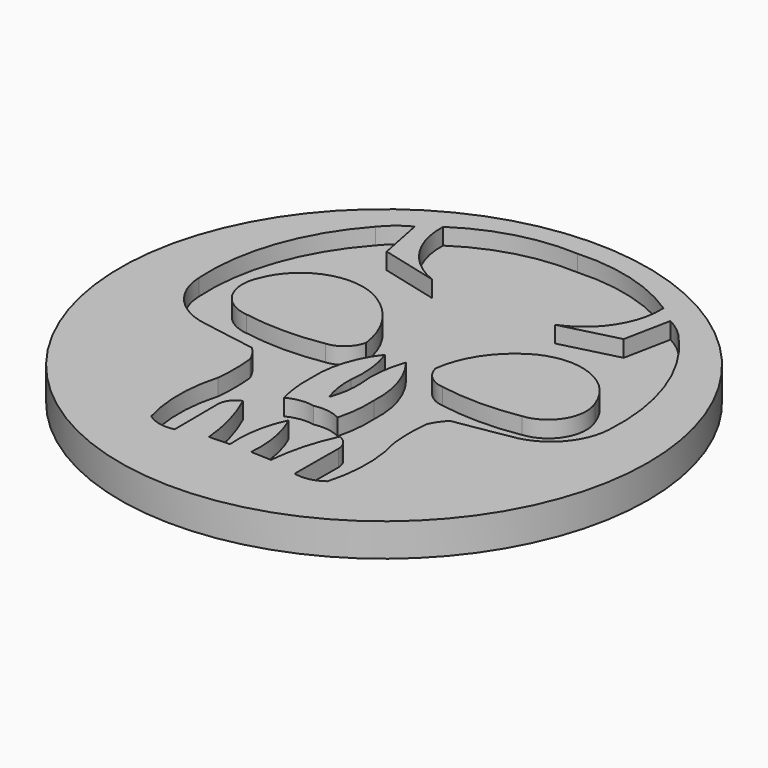
from build123d import *

# Parameters (mm, degrees)
F0_R     = 50.8
F1_DEPTH = 6.35
F3_DEPTH = 3.175


with BuildPart() as f1:
    # F0 (on Top) → F1 (new body)
    with BuildSketch(Plane.XY):
        Circle(F0_R)
    extrude(amount=F1_DEPTH)

    # F2 (on face) → F3 (cut)
    with BuildSketch(Plane.XY.offset(6.35)):
        with BuildLine():
            ThreePointArc((-2.023529, -34.533925), (-1.777175, -28.603001), (0, -22.939239))
            ThreePointArc((0, -22.939239), (1.777175, -28.603001), (2.023529, -34.533925))
            Line((2.023529, -34.533925), (5.974615, -34.669533))
            ThreePointArc((5.974615, -34.669533), (7.104242, -28.355202), (9.302336, -22.328991))
            ThreePointArc((9.302336, -22.328991), (10.967211, -23.551895), (11.607712, -25.515836))
            Line((11.607712, -25.515836), (11.539907, -35.957832))
            ThreePointArc((11.539907, -35.957832), (14.380524, -35.985773), (16.96432, -34.805145))
            ThreePointArc((16.96432, -34.805145), (18.085967, -26.770231), (16.96432, -18.735318))
            ThreePointArc((16.96432, -18.735318), (16.7578, -14.870423), (16.96432, -11.005528))
            ThreePointArc((16.96432, -11.005528), (17.869083, -9.379184), (19.066282, -7.954295))
            ThreePointArc((19.066282, -7.954295), (24.814172, -7.002965), (30.554628, -6.007752))
            ThreePointArc((30.554628, -6.007752), (36.833108, -2.099002), (39.505046, 4.797257))
            ThreePointArc((39.505046, 4.797257), (37.343339, 20.639318), (29.19136, 34.393921))
            ThreePointArc((29.19136, 34.393921), (27.094397, 36.509907), (24.600387, 38.139191))
            Line((24.600387, 38.139191), (22.805873, 29.13427))
            Line((22.805873, 29.13427), (11.843341, 26.337616))
            ThreePointArc((11.843341, 26.337616), (18.827134, 32.024386), (21.200456, 40.712312))
            ThreePointArc((21.200456, 40.712312), (11.071856, 45.336169), (0, 46.512008))
            ThreePointArc((0, 46.512008), (-11.071856, 45.336169), (-21.200456, 40.712312))
            ThreePointArc((-21.200456, 40.712312), (-18.827134, 32.024386), (-11.843341, 26.337616))
            Line((-11.843341, 26.337616), (-22.805873, 29.13427))
            Line((-22.805873, 29.13427), (-24.600387, 38.139191))
            ThreePointArc((-24.600387, 38.139191), (-27.094397, 36.509907), (-29.19136, 34.393921))
            ThreePointArc((-29.19136, 34.393921), (-37.343339, 20.639318), (-39.505046, 4.797257))
            ThreePointArc((-39.505046, 4.797257), (-36.833108, -2.099002), (-30.554628, -6.007752))
            ThreePointArc((-30.554628, -6.007752), (-24.814172, -7.002965), (-19.066282, -7.954295))
            ThreePointArc((-19.066282, -7.954295), (-17.869083, -9.379184), (-16.96432, -11.005528))
            ThreePointArc((-16.96432, -11.005528), (-16.7578, -14.870423), (-16.96432, -18.735318))
            ThreePointArc((-16.96432, -18.735318), (-18.085967, -26.770231), (-16.96432, -34.805145))
            ThreePointArc((-16.96432, -34.805145), (-14.380524, -35.985773), (-11.539907, -35.957832))
            Line((-11.539907, -35.957832), (-11.607712, -25.515836))
            ThreePointArc((-11.607712, -25.515836), (-10.967211, -23.551895), (-9.302336, -22.328991))
            ThreePointArc((-9.302336, -22.328991), (-7.104242, -28.355202), (-5.974615, -34.669533))
            Line((-5.974615, -34.669533), (-2.023529, -34.533925))
        make_face()
        with BuildLine():
            ThreePointArc((-2.023529, 2.753796), (-0.940643, -1.901231), (-0.975282, -6.680429))
            ThreePointArc((-0.975282, -6.680429), (-0.824525, -9.996426), (0, -13.211815))
            ThreePointArc((0, -13.211815), (0.824525, -9.996426), (0.975282, -6.680429))
            ThreePointArc((0.975282, -6.680429), (0.940643, -1.901231), (2.023529, 2.753796))
            ThreePointArc((2.023529, 2.753796), (5.148448, -3.217282), (5.974615, -9.905805))
            ThreePointArc((5.974615, -9.905805), (5.866823, -13.807024), (5.168271, -17.646706))
            ThreePointArc((5.168271, -17.646706), (2.647612, -16.831793), (0, -16.920999))
            ThreePointArc((0, -16.920999), (-2.647612, -16.831793), (-5.168271, -17.646706))
            ThreePointArc((-5.168271, -17.646706), (-5.866823, -13.807024), (-5.974615, -9.905805))
            ThreePointArc((-5.974615, -9.905805), (-5.148448, -3.217282), (-2.023529, 2.753796))
        make_face(mode=Mode.SUBTRACT)
        with BuildLine():
            ThreePointArc((-26.502606, 0), (-32.082928, 3.574671), (-32.482646, 10.189692))
            ThreePointArc((-32.482646, 10.189692), (-25.002638, 17.61113), (-14.542522, 16.340593))
            ThreePointArc((-14.542522, 16.340593), (-9.236558, 11.068946), (-6.683039, 4.038792))
            ThreePointArc((-6.683039, 4.038792), (-8.309473, 1.28099), (-11.243723, 0))
            ThreePointArc((-11.243723, 0), (-18.873164, -0.655974), (-26.502606, 0))
        make_face(mode=Mode.SUBTRACT)
        with BuildLine():
            ThreePointArc((11.243723, 0), (8.309473, 1.28099), (6.683039, 4.038792))
            ThreePointArc((6.683039, 4.038792), (9.236558, 11.068946), (14.542522, 16.340593))
            ThreePointArc((14.542522, 16.340593), (25.002638, 17.61113), (32.482646, 10.189692))
            ThreePointArc((32.482646, 10.189692), (32.082928, 3.574671), (26.502606, 0))
            ThreePointArc((26.502606, 0), (18.873164, -0.655974), (11.243723, 0))
        make_face(mode=Mode.SUBTRACT)
    extrude(amount=-F3_DEPTH, mode=Mode.SUBTRACT)


solid = f1.part
